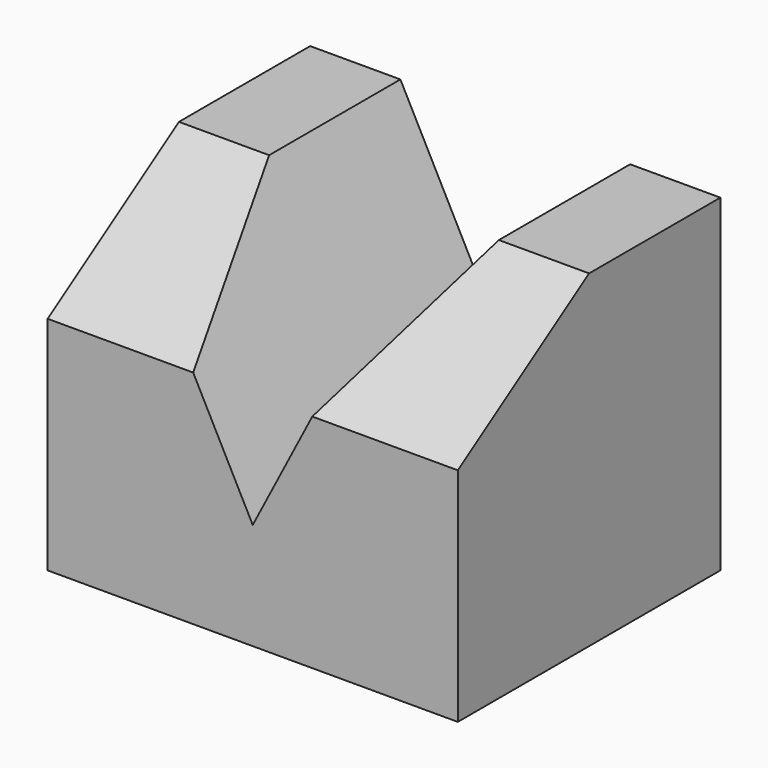
from build123d import *

# Parameters (mm, degrees)
F1_DEPTH = 25
F3_DEPTH = 40.001


with BuildPart() as f1:
    # F0 (on Right) → F1 (new body, symmetric)
    with BuildSketch(Plane.YZ):
        Polygon((0, 27), (0, 0), (40, 0), (40, 40), (20, 40), align=None)
    extrude(amount=F1_DEPTH, both=True)

    # F2 (on face) → F3 (cut, through all)
    with BuildSketch(Plane(origin=(0, 40, 0), x_dir=(-1, 0, 0), z_dir=(0, 1, 0))):
        Polygon((14, 40), (-14, 40), (0, 13), align=None)
    extrude(amount=-F3_DEPTH, mode=Mode.SUBTRACT)


solid = f1.part
